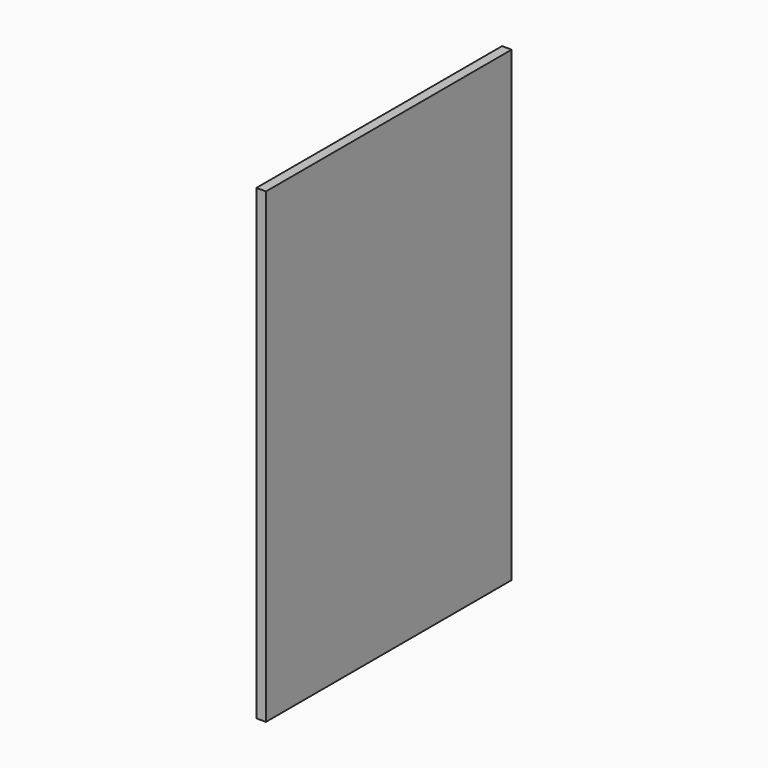
from build123d import *

# Parameters (mm, degrees)
F0_W     = 609.6
F0_H     = 927.1
F1_DEPTH = 19.05
F3_R     = 4.7625
F4_DEPTH = 34.925


with BuildPart() as f1:
    # F0 (on Right) → F1 (new body)
    with BuildSketch(Plane.YZ):
        with Locations((-304.8, 463.55)):
            Rectangle(F0_W, F0_H)
    extrude(amount=F1_DEPTH)

    # F3 (on offset) → F4 (cut)
    with BuildSketch(Plane.YZ.offset(-25.4)):
        with Locations((-9.525, 76.2)):
            Circle(F3_R)
        with Locations((-600.075, 177.8)):
            Circle(F3_R)
        with Locations((-600.075, 901.7)):
            Circle(F3_R)
        with Locations((-295.275, 1365.25)):
            Circle(F3_R)
        with Locations((-295.275, 2089.15)):
            Circle(F3_R)
        with Locations((-295.275, 863.6)):
            Circle(F3_R)
        with Locations((-9.525, 863.6)):
            Circle(F3_R)
        with Locations((-9.525, 2089.15)):
            Circle(F3_R)
        with Locations((-9.525, 1365.25)):
            Circle(F3_R)
        with Locations((-9.525, 901.7)):
            Circle(F3_R)
        with Locations((-9.525, 177.8)):
            Circle(F3_R)
        with Locations((-498.475, 76.2)):
            Circle(F3_R)
        with Locations((-520.7, 161.925)):
            Circle(F3_R)
    extrude(amount=F4_DEPTH, mode=Mode.SUBTRACT)


solid = f1.part
